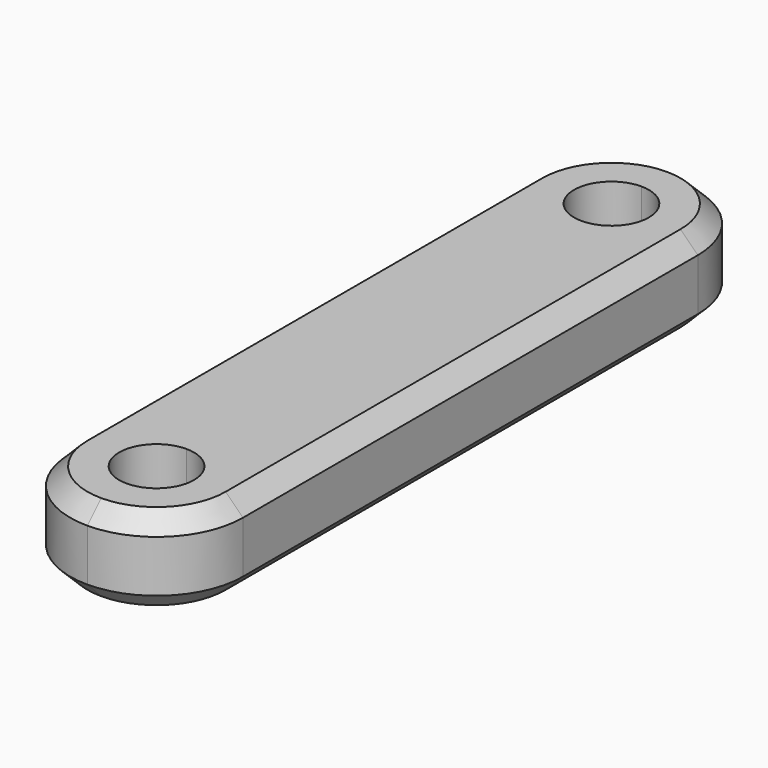
from build123d import *

# Parameters (mm, degrees)
F1_DEPTH = 6.35
F2_SIZE  = 1.27


with BuildPart() as f1:
    # F0 (on Top) → F1 (new body)
    with BuildSketch(Plane.XY):
        with BuildLine():
            ThreePointArc((6.35, 20.9), (4.4901280605, 25.3901280605), (0, 27.25))
            ThreePointArc((0, 27.25), (-4.4901280605, 25.3901280605), (-6.35, 20.9))
            ThreePointArc((-6.35, 20.9), (0, 14.55), (6.35, 20.9))
        make_face()
        with BuildLine():
            ThreePointArc((2.75, 20.9), (-1.9445436483, 18.9554563517), (0, 23.65))
            ThreePointArc((0, 23.65), (1.9445436483, 22.8445436483), (2.75, 20.9))
        make_face(mode=Mode.SUBTRACT)
        with BuildLine():
            Line((6.35, -20.9), (6.35, 20.9))
            ThreePointArc((6.35, 20.9), (0, 14.55), (-6.35, 20.9))
            Line((-6.35, 20.9), (-6.35, -20.9))
            ThreePointArc((-6.35, -20.9), (-4.4901280605, -16.4098719395), (0, -14.55))
            ThreePointArc((0, -14.55), (4.4901280605, -16.4098719395), (6.35, -20.9))
        make_face()
        with BuildLine():
            ThreePointArc((0, -14.55), (-4.4901280605, -16.4098719395), (-6.35, -20.9))
            ThreePointArc((-6.35, -20.9), (-4.4901280605, -25.3901280605), (0, -27.25))
            Line((0, -27.25), (0, -23.65))
            ThreePointArc((0, -23.65), (-2.75, -20.9), (0, -18.15))
            Line((0, -18.15), (0, -14.55))
        make_face()
        with BuildLine():
            ThreePointArc((0, -27.25), (4.4901280605, -25.3901280605), (6.35, -20.9))
            ThreePointArc((6.35, -20.9), (4.4901280605, -16.4098719395), (0, -14.55))
            Line((0, -14.55), (0, -18.15))
            ThreePointArc((0, -18.15), (1.9445436483, -18.9554563517), (2.75, -20.9))
            ThreePointArc((2.75, -20.9), (1.9445436483, -22.8445436483), (0, -23.65))
            Line((0, -23.65), (0, -27.25))
        make_face()
    extrude(amount=F1_DEPTH)

    # F2
    f2_edges = [f1.edges().sort_by_distance(p)[0] for p in [
        (-6.35, 0, 0),
        (-6.35, 0, 6.35),
    ]]
    chamfer(f2_edges, length=F2_SIZE)


solid = f1.part
